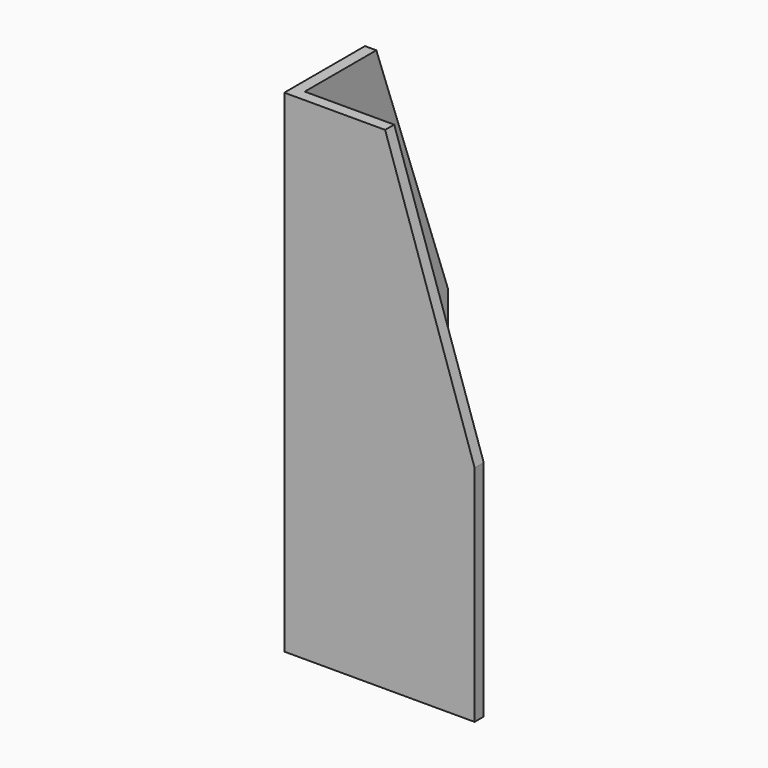
from build123d import *

# Parameters (mm, degrees)
F1_DEPTH = 2.54
F2_W     = 2.54
F2_H     = 110
F3_DEPTH = 2.54


with BuildPart() as f1:
    # F0 (on Front) → F1 (new body)
    with BuildSketch(Plane.XZ):
        Polygon((-20, -25), (20, -25), (20, 25), (0, 85), (-20, 85), (-20, 25), align=None)
    extrude(amount=F1_DEPTH)

    # F2 (on face) → F3 (join)
    with BuildSketch(Plane(origin=(-20, 0, 0), x_dir=(0, -1, 0), z_dir=(-1, 0, 0))):
        Polygon((-40, -25), (0, -25), (0, 85), (-20, 85), (-40, 30), align=None)
        with Locations((1.27, 30)):
            Rectangle(F2_W, F2_H)
    extrude(amount=F3_DEPTH)


solid = f1.part
